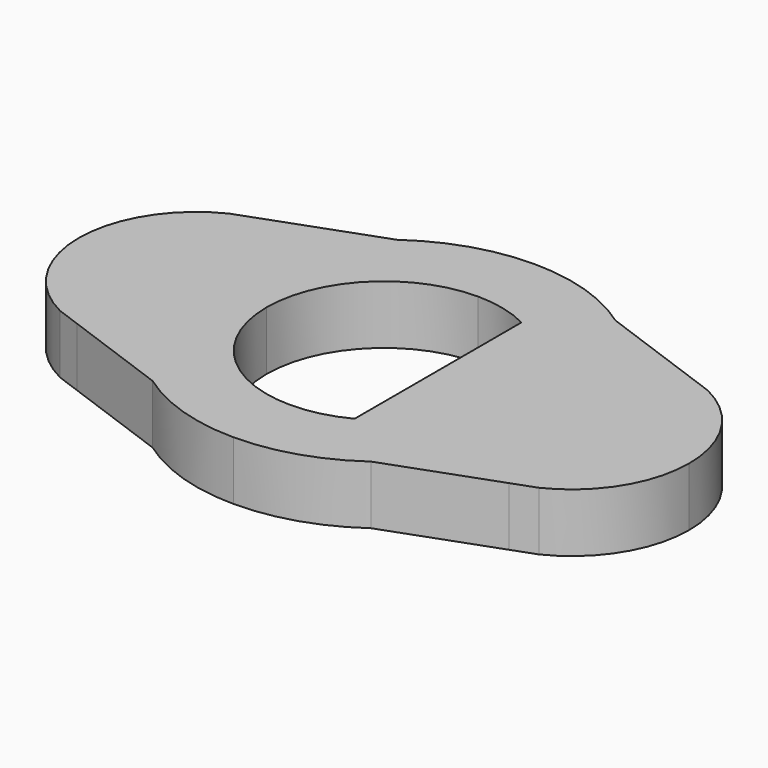
from build123d import *

# Parameters (mm, degrees)
F1_DEPTH = 3.175


with BuildPart() as f1:
    # F0 (on Top) → F1 (new body)
    with BuildSketch(Plane.XY):
        with BuildLine():
            ThreePointArc((5.908962, 8.264972), (3.102699, 9.67465), (0, 10.16))
            ThreePointArc((0, 10.16), (-3.102699, 9.67465), (-5.908962, 8.264972))
            Line((-5.908962, 8.264972), (-11.686093, 6.16389))
            Line((-11.686093, 6.16389), (-12.950189, 5.704151))
            ThreePointArc((-12.950189, 5.704151), (-15.547031, 3.361904), (-16.51, 0))
            ThreePointArc((-16.51, 0), (-15.547031, -3.361904), (-12.950189, -5.704151))
            Line((-12.950189, -5.704151), (-11.686093, -6.16389))
            Line((-11.686093, -6.16389), (-5.908962, -8.264972))
            ThreePointArc((-5.908962, -8.264972), (-3.102699, -9.67465), (0, -10.16))
            ThreePointArc((0, -10.16), (3.102699, -9.67465), (5.908962, -8.264972))
            Line((5.908962, -8.264972), (11.686093, -6.16389))
            Line((11.686093, -6.16389), (12.950189, -5.704151))
            ThreePointArc((12.950189, -5.704151), (15.547031, -3.361904), (16.51, 0))
            ThreePointArc((16.51, 0), (15.547031, 3.361904), (12.950189, 5.704151))
            Line((12.950189, 5.704151), (11.686093, 6.16389))
            Line((11.686093, 6.16389), (5.908962, 8.264972))
        make_face()
        with BuildLine():
            ThreePointArc((-6.35, 0), (-4.490128, 4.490128), (0, 6.35))
            ThreePointArc((0, 6.35), (1.502973, 6.169568), (2.920534, 5.638527))
            Line((2.920534, 5.638527), (2.920534, 0))
            Line((2.920534, 0), (2.920534, -5.638527))
            ThreePointArc((2.920534, -5.638527), (1.502973, -6.169568), (0, -6.35))
            ThreePointArc((0, -6.35), (-4.490128, -4.490128), (-6.35, 0))
        make_face(mode=Mode.SUBTRACT)
    extrude(amount=F1_DEPTH)


solid = f1.part
